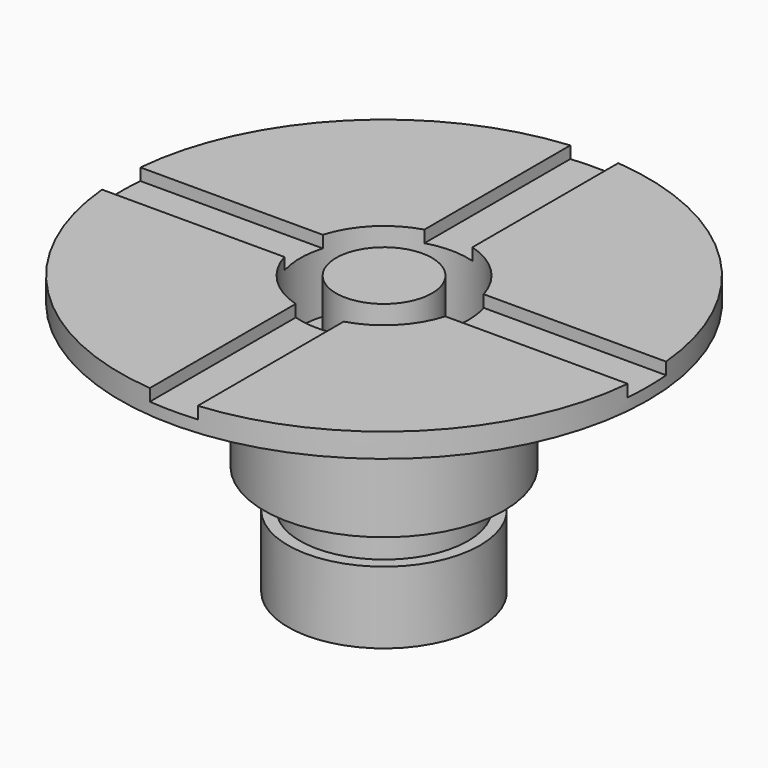
from build123d import *

# Parameters (mm, degrees)
F0_R          = 11
F1_DEPTH      = 1
F2_R          = 5
F3_DEPTH      = 6
F4_R          = 3.5
F5_DEPTH      = 11.6
F7_DEPTH      = 0.5
F8_R          = 3.5
F9_DEPTH      = 1.6
F9_DEPTH_BACK = 4
F10_R         = 4
F11_DEPTH     = 3
F12_R         = 2
F13_DEPTH     = 11.6


with BuildPart() as f1:
    # F0 (on Top) → F1 (new body)
    with BuildSketch(Plane.XY):
        Circle(F0_R)
    extrude(amount=F1_DEPTH)

    # F2 (on face) → F3 (join)
    with BuildSketch(Plane(origin=(0, 0, 0), x_dir=(1, 0, 0), z_dir=(0, 0, -1))):
        Circle(F2_R)
    extrude(amount=F3_DEPTH)

    # F4 (on face) → F5 (cut)
    with BuildSketch(Plane.XY.offset(1)):
        Circle(F4_R)
    extrude(amount=-F5_DEPTH, mode=Mode.SUBTRACT)

    # F6 (on face) → F7 (cut)
    with BuildSketch(Plane.XY.offset(1)):
        with BuildLine():
            Line((-10.9544511501, -1), (-10.9544511501, 1))
            ThreePointArc((-10.9544511501, 1), (-11, 0), (-10.9544511501, -1))
        make_face()
        with BuildLine():
            Line((-3.3541019662, 1), (-10.9544511501, 1))
            Line((-10.9544511501, 1), (-10.9544511501, -1))
            Line((-10.9544511501, -1), (-3.3541019662, -1))
            ThreePointArc((-3.3541019662, -1), (-3.5, 0), (-3.3541019662, 1))
        make_face()
        with BuildLine():
            ThreePointArc((10.9544511501, -1), (11, 0), (10.9544511501, 1))
            Line((10.9544511501, 1), (10.9544511501, -1))
        make_face()
        with BuildLine():
            Line((10.9544511501, -1), (10.9544511501, 1))
            Line((10.9544511501, 1), (3.3541019662, 1))
            ThreePointArc((3.3541019662, 1), (3.5, 0), (3.3541019662, -1))
            Line((3.3541019662, -1), (10.9544511501, -1))
        make_face()
        with BuildLine():
            ThreePointArc((1, 10.9544511501), (0, 11), (-1, 10.9544511501))
            Line((-1, 10.9544511501), (1, 10.9544511501))
        make_face()
        with BuildLine():
            Line((1, 10.9544511501), (-1, 10.9544511501))
            Line((-1, 10.9544511501), (-1, 3.3541019662))
            ThreePointArc((-1, 3.3541019662), (0, 3.5), (1, 3.3541019662))
            Line((1, 3.3541019662), (1, 10.9544511501))
        make_face()
        with BuildLine():
            Line((-1, -3.3541019662), (-1, -10.9544511501))
            Line((-1, -10.9544511501), (1, -10.9544511501))
            Line((1, -10.9544511501), (1, -3.3541019662))
            ThreePointArc((1, -3.3541019662), (0, -3.5), (-1, -3.3541019662))
        make_face()
        with BuildLine():
            Line((1, -10.9544511501), (-1, -10.9544511501))
            ThreePointArc((-1, -10.9544511501), (0, -11), (1, -10.9544511501))
        make_face()
    extrude(amount=-F7_DEPTH, mode=Mode.SUBTRACT)


with BuildPart() as f9:
    # F8 (on face) → F9 (new body, two sides)
    with BuildSketch(Plane(origin=(0, 0, -6), x_dir=(1, 0, 0), z_dir=(0, 0, -1))) as f9_sk:
        Circle(F8_R)
    extrude(amount=F9_DEPTH)
    extrude(f9_sk.sketch, amount=-F9_DEPTH_BACK)


with BuildPart() as f11:
    # F10 (on face) → F11 (new body)
    with BuildSketch(Plane(origin=(0, 0, -7.6), x_dir=(1, 0, 0), z_dir=(0, 0, -1))):
        Circle(F10_R)
    extrude(amount=F11_DEPTH)


with BuildPart() as f13:
    # F12 (on face) → F13 (new body)
    with BuildSketch(Plane(origin=(0, 0, -10.6), x_dir=(1, 0, 0), z_dir=(0, 0, -1))):
        Circle(F12_R)
    extrude(amount=-F13_DEPTH)


solid = Compound([f1.part, f9.part, f11.part, f13.part])
